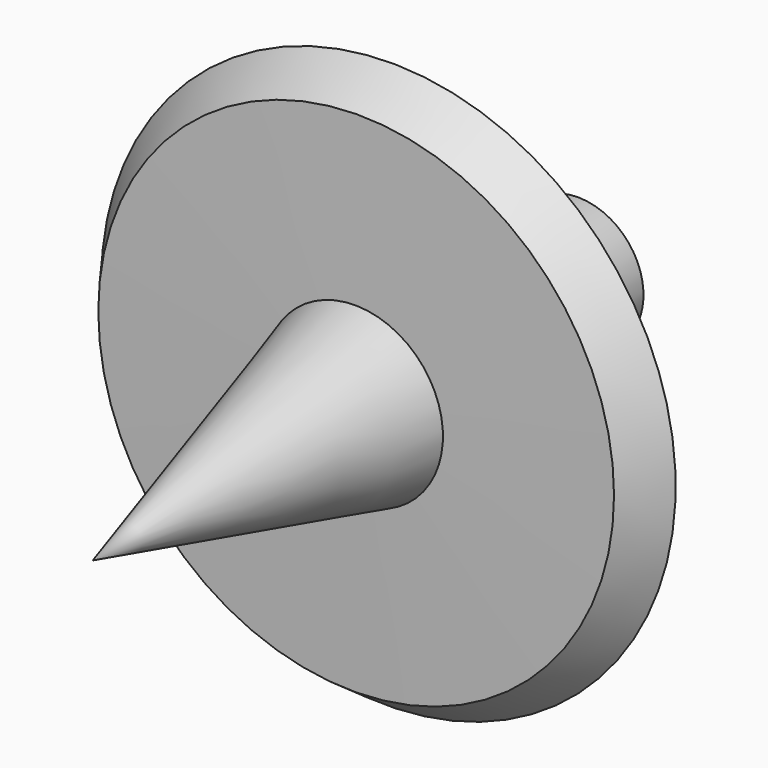
from build123d import *


with BuildPart() as f1:
    # F0 (on Top) → F1 (revolve)
    with BuildSketch(Plane.XY):
        Polygon((-29.8704002053, 57.150002569), (-37.7952009439, 57.150002569), (-37.7952009439, 32.4611999094), (-29.4673177405, 32.4611999094), align=None)
        Polygon((-29.4673177405, 32.4611999094), (-37.7952009439, 32.4611999094), (-56.9976009429, 32.4611999094), (-63.7032017112, 27.584400028), (-60.1180944561, 22.6548768676), (-39.9288013577, 22.6548768676), (-29.3072145181, 22.6548768676), align=None)
        Polygon((-28.6512002349, -17.5260007381), (-29.3072145181, 22.6548768676), (-39.9288013577, 22.6548768676), align=None)
    revolve(axis=Axis((-29.2608002201, 19.8120009154, 0), (0.016324354, -0.9998667489, 0)))


solid = f1.part
